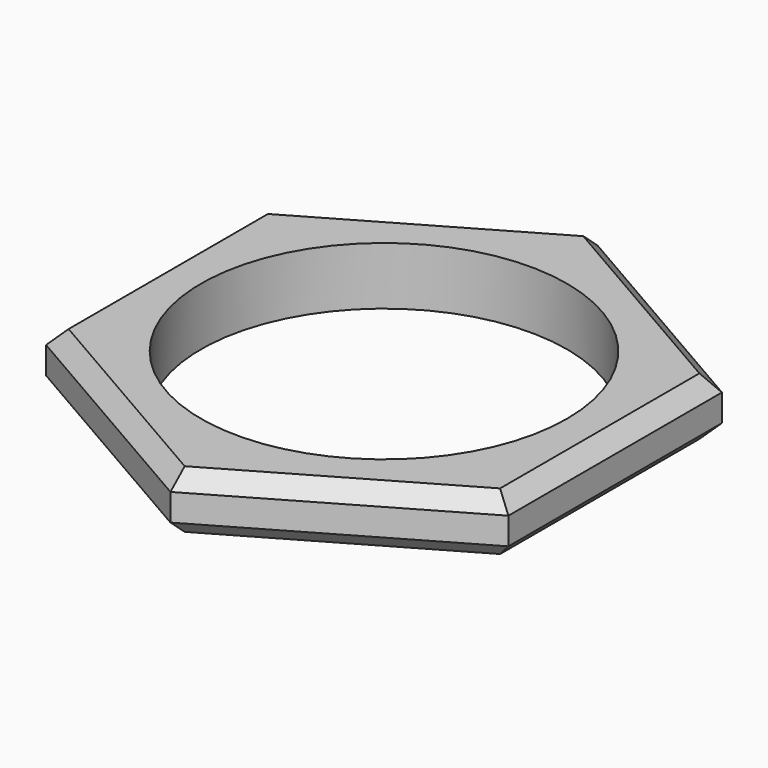
from build123d import *

# Parameters (mm, degrees)
SKETCH019_R     = 9.5
PAD009_DEPTH    = 3
CHAMFER005_SIZE = 0.8
CHAMFER004_SIZE = 0.8


with BuildPart() as part:
    # Sketch019 → Pad009 (new body)
    with BuildSketch(Plane.XY):
        Polygon((12, -6.928203), (12, 6.928203), (0, 13.856406), (-12, 6.928203), (-12, -6.928203), (0, -13.856406), align=None)
        Circle(SKETCH019_R, mode=Mode.SUBTRACT)
    extrude(amount=PAD009_DEPTH)

    # Chamfer005
    chamfer005_edges = [part.edges().sort_by_distance(p)[0] for p in [
        (12, 0, 3),
        (6, -10.392305, 3),
        (-6, -10.392305, 3),
        (-12, 0, 3),
        (-6, 10.392305, 3),
        (6, 10.392305, 3),
    ]]
    chamfer(chamfer005_edges, length=CHAMFER005_SIZE)

    # Chamfer004
    chamfer004_edges = [part.edges().sort_by_distance(p)[0] for p in [
        (-6, 10.392305, 0),
        (-12, 0, 0),
        (-6, -10.392305, 0),
        (6, -10.392305, 0),
        (12, 0, 0),
        (6, 10.392305, 0),
    ]]
    chamfer(chamfer004_edges, length=CHAMFER004_SIZE)


with BuildPart() as part_1:
    # Body006 placement: moved
    add(part.part.moved(Location((0, 0, 5))))


solid = part_1.part
